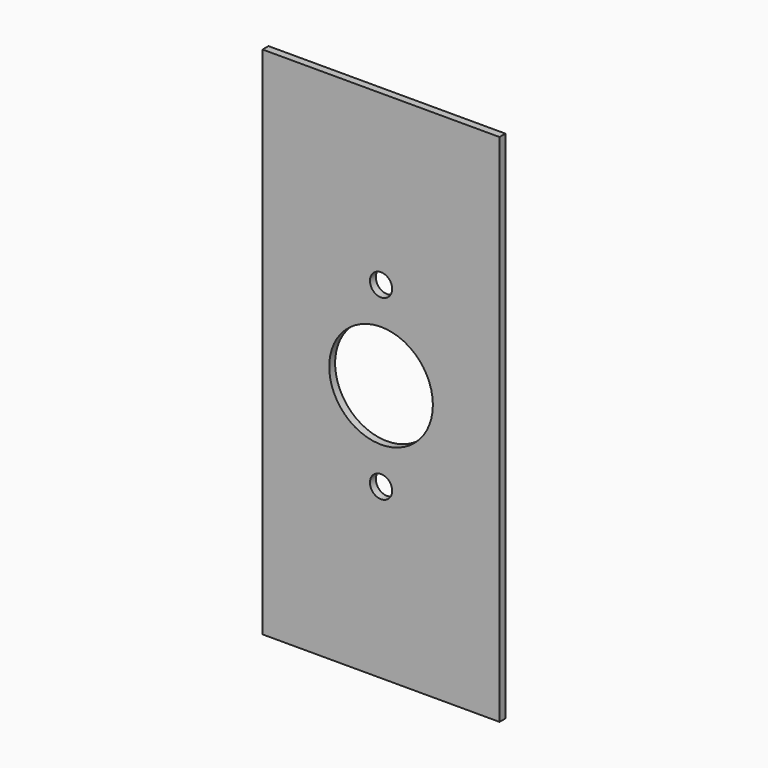
from build123d import *

# Parameters (mm, degrees)
F0_R     = 4.7625
F0_R_2   = 22.225
F1_DEPTH = 3.175


with BuildPart() as f1:
    # F0 (on Front) → F1 (new body)
    with BuildSketch(Plane.XZ):
        Polygon((347.514372, -72.2862), (347.514372, 38.1), (347.514372, 148.5138), (245.914372, 148.5138), (245.914372, -72.2862), align=None)
        with Locations((296.714372, 0)):
            Circle(F0_R, mode=Mode.SUBTRACT)
        with Locations((296.714372, 38.1)):
            Circle(F0_R_2, mode=Mode.SUBTRACT)
        with Locations((296.714372, 76.2)):
            Circle(F0_R, mode=Mode.SUBTRACT)
    extrude(amount=F1_DEPTH)


solid = f1.part
